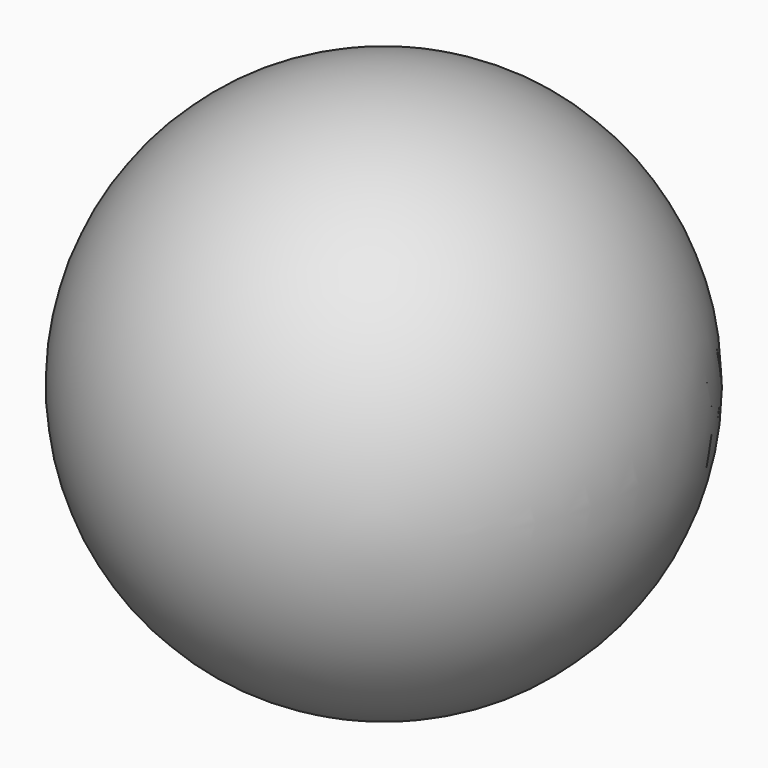
from build123d import *


with BuildPart() as f1:
    # F0 (on Top) → F1 (revolve)
    with BuildSketch(Plane.XY):
        with BuildLine():
            ThreePointArc((-8.568402216, 11.234646136), (11.234646136, 8.568402216), (8.568402216, -11.234646136))
            Line((8.568402216, -11.234646136), (10.1087381515, -13.2542909577))
            ThreePointArc((10.1087381515, -13.2542909577), (13.2542909577, 10.1087381515), (-10.1087381515, 13.2542909577))
            Line((-10.1087381515, 13.2542909577), (-8.568402216, 11.234646136))
        make_face()
    revolve(axis=Axis((-9.3385701837, 12.2444685469, 0), (-0.6064314707, 0.7951357566, 0)))


solid = f1.part
